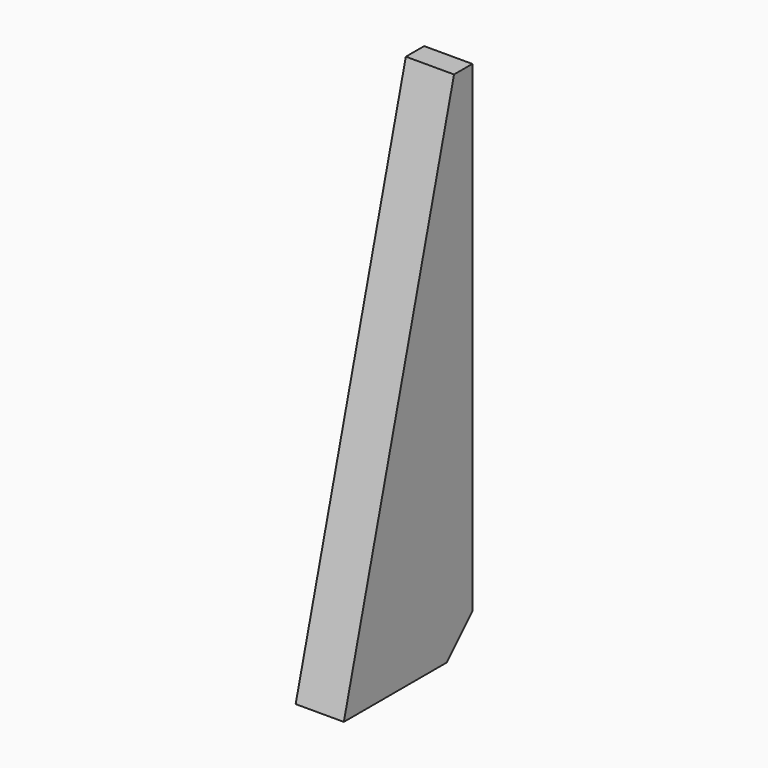
from build123d import *

# Parameters (mm, degrees)
F1_DEPTH = 15
F2_SIZE2 = 10
F2_SIZE  = 10


with BuildPart() as f1:
    # F0 (on Right) → F1 (new body)
    with BuildSketch(Plane.YZ):
        Polygon((-49.22706, 137.399733), (-92.09893, -22.600267), (-42.09893, -22.600267), (-42.09893, 137.399733), align=None)
    extrude(amount=-F1_DEPTH)

    # F2
    f2_edges = [f1.edges().sort_by_distance(p)[0] for p in [
        (-7.5, -42.09893, -22.600267),
    ]]
    chamfer(f2_edges, length=F2_SIZE, length2=F2_SIZE2)


solid = f1.part
